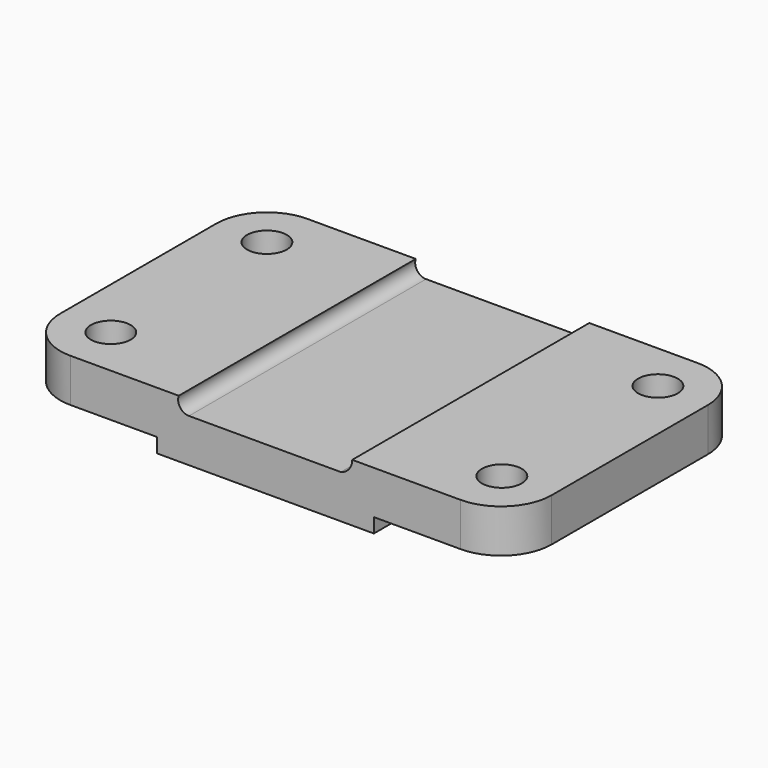
from build123d import *

# Parameters (mm, degrees)
F0_R     = 5.5
F0_W     = 48
F0_H     = 82
F1_DEPTH = 16
F3_DEPTH = 82.001


with BuildPart() as f1:
    # F0 (on Top) → F1 (new body)
    with BuildSketch(Plane.XY):
        with BuildLine():
            Line((0, 68), (0, 14))
            ThreePointArc((0, 14), (4.100505, 4.100505), (14, 0))
            Line((14, 0), (44, 0))
            Line((44, 0), (44, 82))
            Line((44, 82), (14, 82))
            ThreePointArc((14, 82), (4.100505, 77.899495), (0, 68))
        make_face()
        with Locations((14, 14)):
            Circle(F0_R, mode=Mode.SUBTRACT)
        with Locations((14, 68)):
            Circle(F0_R, mode=Mode.SUBTRACT)
        with Locations((68, 41)):
            Rectangle(F0_W, F0_H)
        with BuildLine():
            Line((92, 82), (92, 0))
            Line((92, 0), (122, 0))
            ThreePointArc((122, 0), (131.899495, 4.100505), (136, 14))
            Line((136, 14), (136, 68))
            ThreePointArc((136, 68), (131.899495, 77.899495), (122, 82))
            Line((122, 82), (92, 82))
        make_face()
        with Locations((121.999683, 14.261592)):
            Circle(F0_R, mode=Mode.SUBTRACT)
        with Locations((121.999683, 68.261592)):
            Circle(F0_R, mode=Mode.SUBTRACT)
    extrude(amount=F1_DEPTH)

    # F2 (on Front) → F3 (intersect, through all)
    with BuildSketch(Plane.XZ):
        with BuildLine():
            Line((0, 16), (0, 4))
            Line((0, 4), (38, 4))
            Line((38, 4), (38, 0))
            Line((38, 0), (98, 0))
            Line((98, 0), (98, 4))
            Line((98, 4), (136, 4))
            Line((136, 4), (136, 16))
            Line((136, 16), (92, 16))
            ThreePointArc((92, 16), (91.110896, 13.447605), (88.828427, 12))
            Line((88.828427, 12), (46.828427, 12))
            ThreePointArc((46.828427, 12), (44.378937, 13.267949), (44, 16))
            Line((44, 16), (0, 16))
        make_face()
    extrude(amount=-F3_DEPTH, mode=Mode.INTERSECT)


solid = f1.part
